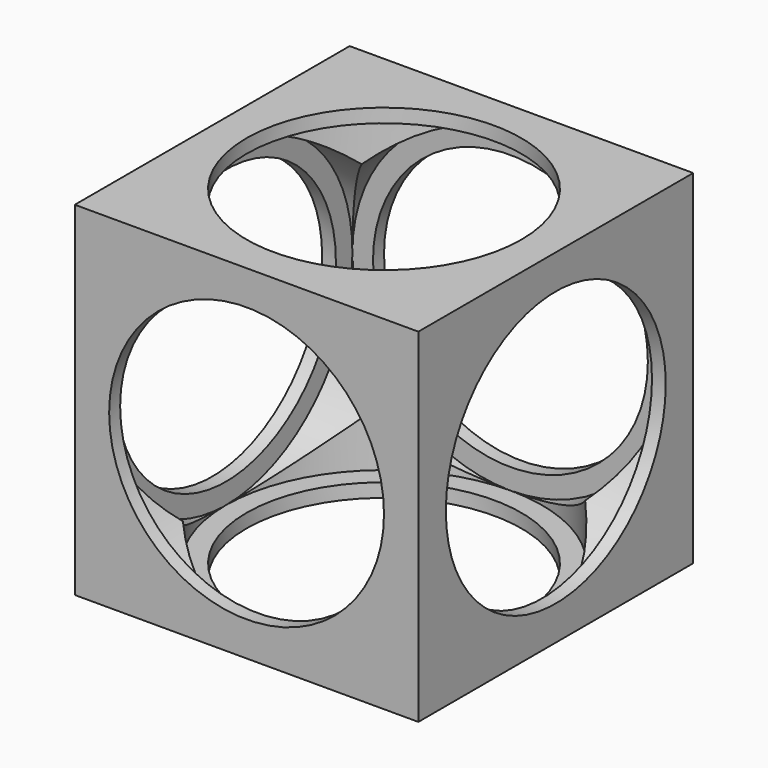
from build123d import *

# Parameters (mm, degrees)
F0_W      = 50
F0_H      = 50
F1_DEPTH  = 25
F2_R      = 20
F3_DEPTH  = 50.001
F4_R      = 20
F5_DEPTH  = 50.001
F6_R      = 20
F7_DEPTH  = 50.001
F8_R      = 23
F9_DEPTH  = 23
F10_R     = 23
F11_DEPTH = 23
F12_R     = 23
F13_DEPTH = 23


with BuildPart() as f1:
    # F0 (on Top) → F1 (new body, symmetric)
    with BuildSketch(Plane.XY):
        Rectangle(F0_W, F0_H)
    extrude(amount=F1_DEPTH, both=True)

    # F2 (on face) → F3 (cut, through all)
    with BuildSketch(Plane(origin=(0, 25, 0), x_dir=(-1, 0, 0), z_dir=(0, 1, 0))):
        Circle(F2_R)
    extrude(amount=-F3_DEPTH, mode=Mode.SUBTRACT)

    # F4 (on face) → F5 (cut, through all)
    with BuildSketch(Plane(origin=(-25, 0, 0), x_dir=(0, -1, 0), z_dir=(-1, 0, 0))):
        Circle(F4_R)
    extrude(amount=-F5_DEPTH, mode=Mode.SUBTRACT)

    # F6 (on face) → F7 (cut, through all)
    with BuildSketch(Plane.XY.offset(25)):
        Circle(F6_R)
    extrude(amount=-F7_DEPTH, mode=Mode.SUBTRACT)

    # F8 (on Top) → F9 (cut, symmetric)
    with BuildSketch(Plane.XY):
        Circle(F8_R)
    extrude(amount=F9_DEPTH, both=True, mode=Mode.SUBTRACT)

    # F10 (on Right) → F11 (cut, symmetric)
    with BuildSketch(Plane.YZ):
        Circle(F10_R)
    extrude(amount=F11_DEPTH, both=True, mode=Mode.SUBTRACT)

    # F12 (on Front) → F13 (cut, symmetric)
    with BuildSketch(Plane.XZ):
        Circle(F12_R)
    extrude(amount=F13_DEPTH, both=True, mode=Mode.SUBTRACT)


solid = f1.part
